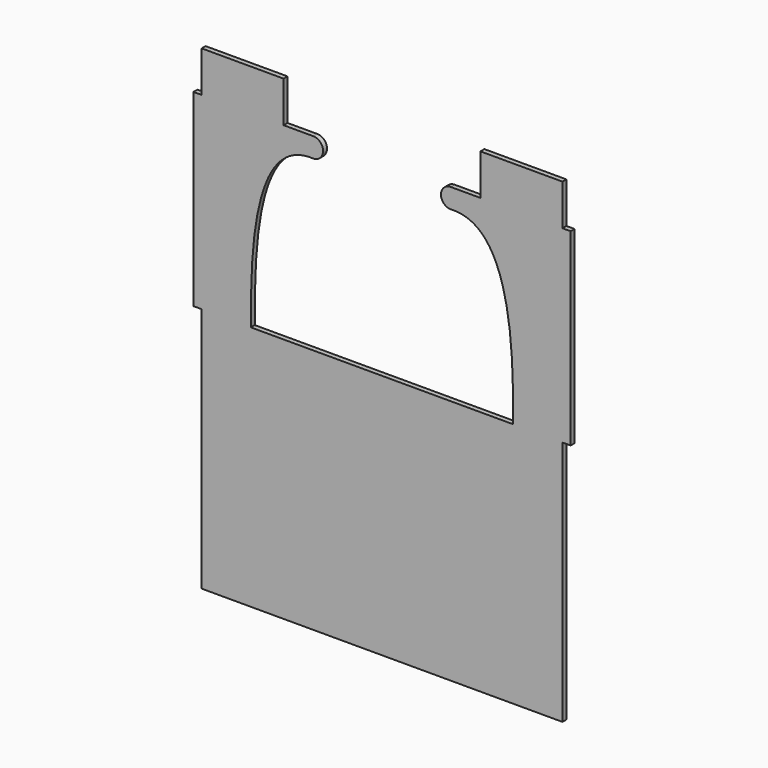
from build123d import *

# Parameters (mm, degrees)
F0_W     = 30
F0_H     = 115
F0_H_2   = 150
F0_W_2   = 5
F0_W_3   = 160
F1_DEPTH = 3


with BuildPart() as f1:
    # F0 (on Front) → F1 (new body)
    with BuildSketch(Plane.XZ):
        with Locations((-95, 132.5)):
            Rectangle(F0_W, F0_H)
        with Locations((-95, 0)):
            Rectangle(F0_W, F0_H_2)
        with Locations((-112.5, 132.5)):
            Rectangle(F0_W_2, F0_H)
        Rectangle(F0_W_3, F0_H_2)
        with BuildLine():
            Line((-80, 190), (-80, 75))
            add(Edge.make_bspline(
                [(-41.8714651341, 178.0006884036), (-80, 180.026688963), (-80, 110.9410823158), (-80, 75)],
                knots=[0, 0, 0, 0, 109.8313570099, 109.8313570099, 109.8313570099, 109.8313570099], degree=3))
            Line((-41.8714651341, 178.0006884036), (-42, 190))
            Line((-42, 190), (-60, 190))
            Line((-60, 190), (-80, 190))
        make_face()
        Polygon((-110, 215), (-110, 190), (-80, 190), (-60, 190), (-60, 215), align=None)
        with Locations((95, 132.5)):
            Rectangle(F0_W, F0_H)
        with Locations((95, 0)):
            Rectangle(F0_W, F0_H_2)
        with BuildLine():
            add(Edge.make_bspline(
                [(41.8714651341, 178.0006884036), (80, 180.026688963), (80, 110.9410823158), (80, 75)],
                knots=[0, 0, 0, 0, 109.8313570099, 109.8313570099, 109.8313570099, 109.8313570099], degree=3))
            Line((80, 75), (80, 190))
            Line((80, 190), (60, 190))
            Line((60, 190), (42, 190))
            ThreePointArc((42, 190), (35.9360767688, 184.0646116347), (41.8714651341, 178.0006884036))
        make_face()
        with BuildLine():
            Line((-42, 190), (-41.8714651341, 178.0006884036))
            ThreePointArc((-41.8714651341, 178.0006884036), (-35.9360767688, 184.0646116347), (-42, 190))
        make_face()
        with Locations((112.5, 132.5)):
            Rectangle(F0_W_2, F0_H)
        Polygon((60, 190), (80, 190), (110, 190), (110, 215), (60, 215), align=None)
    extrude(amount=F1_DEPTH)


solid = f1.part
